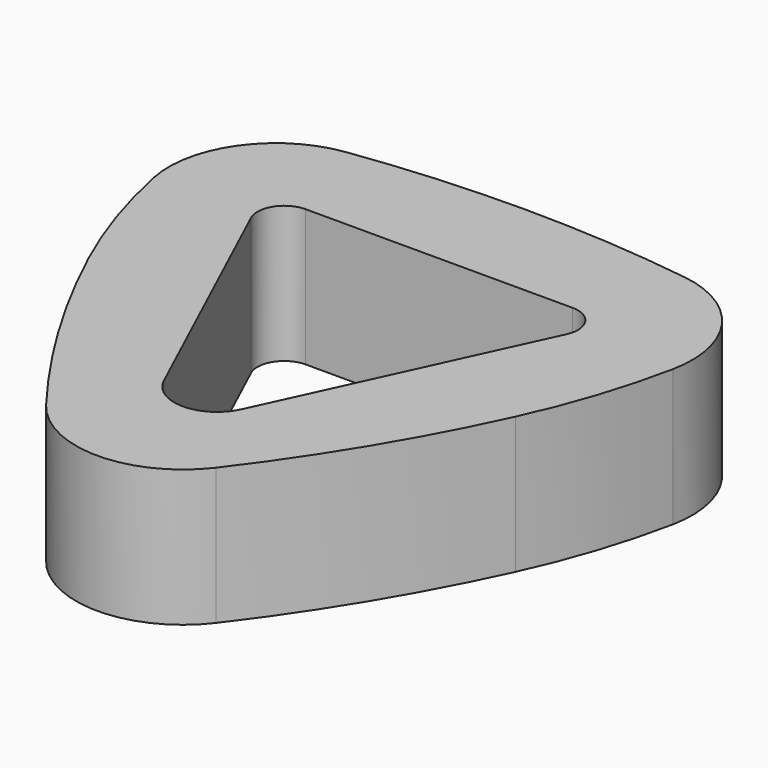
from build123d import *

# Parameters (mm, degrees)
PAD_DEPTH = 12.8


with BuildPart() as part:
    # Sketch → Pad (new body)
    with BuildSketch(Plane.XY):
        with BuildLine():
            ThreePointArc((-24.295471, 26.987861), (-22.525854, 20.33745), (-20.005224, 13.933863))
            ThreePointArc((-20.005224, 13.933863), (-14.526243, 3.599075), (-7.945722, -6.071697))
            ThreePointArc((-7.945722, -6.071697), (0, -10), (7.945722, -6.071697))
            ThreePointArc((7.945722, -6.071697), (14.526243, 3.599075), (20.005224, 13.933863))
            ThreePointArc((20.005224, 13.933863), (22.525853, 20.337445), (24.295472, 26.98785))
            ThreePointArc((24.295472, 26.98785), (22.666335, 34.771566), (15.872783, 38.905324))
            ThreePointArc((15.872783, 38.905324), (7.955243, 39.726006), (0, 40))
            ThreePointArc((0, 40), (-7.955239, 39.726008), (-15.872775, 38.905329))
            ThreePointArc((-15.872775, 38.905329), (-22.666329, 34.771574), (-24.295471, 26.987861))
        make_face()
        with BuildLine():
            Line((3.631735, 2.323545), (14.769834, 26.452216))
            ThreePointArc((14.769834, 26.452216), (14.60588, 28.847319), (12.5, 30))
            Line((-12.5, 30), (12.5, 30))
            ThreePointArc((-12.5, 30), (-14.60588, 28.847319), (-14.769834, 26.452216))
            Line((-3.631735, 2.323545), (-14.769834, 26.452216))
            ThreePointArc((-3.631735, 2.323545), (0, 0), (3.631735, 2.323545))
        make_face(mode=Mode.SUBTRACT)
    extrude(amount=PAD_DEPTH)


solid = part.part
